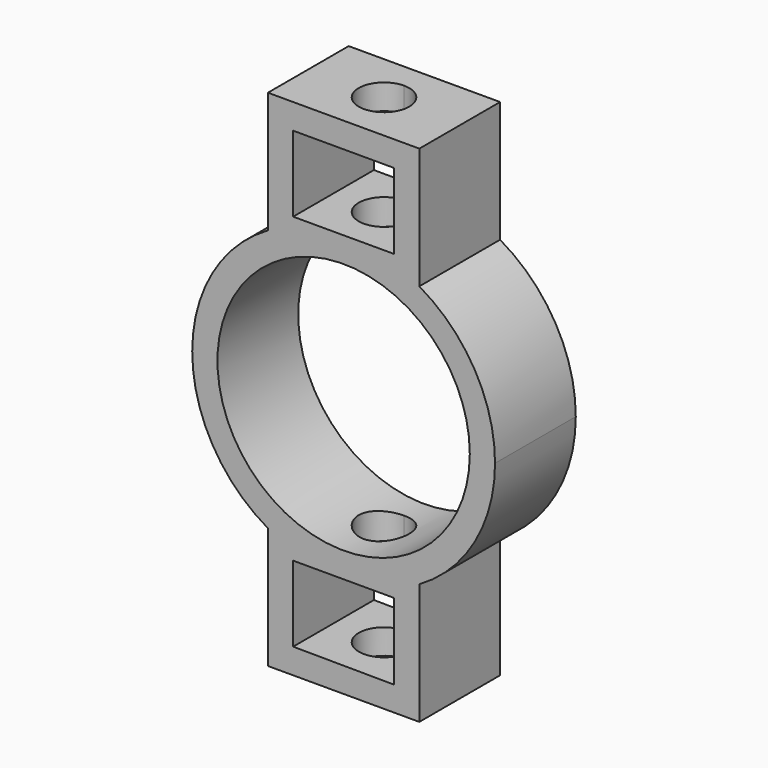
from build123d import *

# Parameters (mm, degrees)
F0_R     = 31.75
F0_W     = 6.35
F0_H     = 6.35
F0_H_2   = 6.514672
F1_DEPTH = 25.4
F3_DEPTH = 102.108
F4_DEPTH = 65.278


with BuildPart() as f1:
    # F0 (on Front) → F1 (new body)
    with BuildSketch(Plane.XZ):
        with BuildLine():
            ThreePointArc((19.05, -32.995568), (32.995568, -19.05), (38.1, 0))
            ThreePointArc((38.1, 0), (32.995568, 19.05), (19.05, 32.995568))
            ThreePointArc((19.05, 32.995568), (9.861006, 36.801774), (0, 38.1))
            ThreePointArc((0, 38.1), (-9.861006, 36.801774), (-19.05, 32.995568))
            ThreePointArc((-19.05, 32.995568), (-38.1, 0), (-19.05, -32.995568))
            ThreePointArc((-19.05, -32.995568), (-9.861006, -36.801774), (0, -38.1))
            ThreePointArc((0, -38.1), (9.861006, -36.801774), (19.05, -32.995568))
        make_face()
        Circle(F0_R, mode=Mode.SUBTRACT)
        with BuildLine():
            ThreePointArc((0, 38.1), (9.861006, 36.801774), (19.05, 32.995568))
            Line((19.05, 32.995568), (19.05, 38.1))
            Line((19.05, 38.1), (12.7, 38.1))
            Line((12.7, 38.1), (0, 38.1))
        make_face()
        with BuildLine():
            Line((19.05, -38.1), (19.05, -32.995568))
            ThreePointArc((19.05, -32.995568), (9.861006, -36.801774), (0, -38.1))
            Line((0, -38.1), (12.7, -38.1))
            Line((12.7, -38.1), (19.05, -38.1))
        make_face()
        with BuildLine():
            ThreePointArc((-19.05, 32.995568), (-9.861006, 36.801774), (0, 38.1))
            Line((0, 38.1), (-12.7, 38.1))
            Line((-12.7, 38.1), (-19.05, 38.1))
            Line((-19.05, 38.1), (-19.05, 32.995568))
        make_face()
        with Locations((15.875, 41.275)):
            Rectangle(F0_W, F0_H)
        with BuildLine():
            Line((-12.7, -38.1), (0, -38.1))
            ThreePointArc((0, -38.1), (-9.861006, -36.801774), (-19.05, -32.995568))
            Line((-19.05, -32.995568), (-19.05, -38.1))
            Line((-19.05, -38.1), (-12.7, -38.1))
        make_face()
        with Locations((15.875, -41.357336)):
            Rectangle(F0_W, F0_H_2)
        with Locations((-15.875, 41.275)):
            Rectangle(F0_W, F0_H)
        Polygon((12.7, 44.45), (19.05, 44.45), (19.05, 63.5), (-19.05, 63.5), (-19.05, 44.45), (-12.7, 44.45), (-12.7, 57.15), (12.7, 57.15), align=None)
        with Locations((-15.875, -41.275)):
            Rectangle(F0_W, F0_H)
        Polygon((19.05, -63.5), (19.05, -44.614672), (12.7, -44.614672), (12.7, -57.314672), (-12.7, -57.15), (-12.7, -44.45), (-19.05, -44.45), (-19.05, -63.5), align=None)
    extrude(amount=F1_DEPTH)

    # F2 (on Top) → F3 (cut)
    with BuildSketch(Plane.XY):
        with BuildLine():
            ThreePointArc((0, -6.35), (-4.490128, -17.190128), (6.35, -12.7))
            ThreePointArc((6.35, -12.7), (4.490128, -8.209872), (0, -6.35))
        make_face()
    extrude(amount=-F3_DEPTH, mode=Mode.SUBTRACT)

    # F2 (on Top) → F4 (cut)
    with BuildSketch(Plane.XY):
        with BuildLine():
            ThreePointArc((0, -6.35), (-4.490128, -17.190128), (6.35, -12.7))
            ThreePointArc((6.35, -12.7), (4.490128, -8.209872), (0, -6.35))
        make_face()
    extrude(amount=F4_DEPTH, mode=Mode.SUBTRACT)


solid = f1.part
